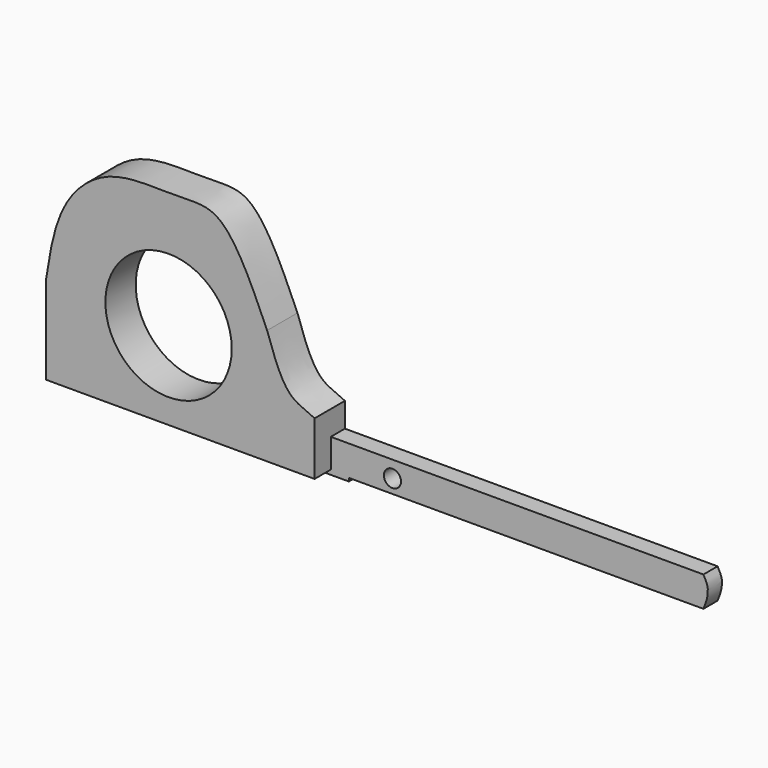
from build123d import *

# Parameters (mm, degrees)
F0_R     = 12.7
F1_DEPTH = 7.62
F3_DEPTH = 3.556


with BuildPart() as f1:
    # F0 (on Front) → F1 (new body)
    with BuildSketch(Plane.XZ):
        with BuildLine():
            add(Edge.make_bspline(
                [(-74.4966706308, 23.3939551896), (-73.725104121, 28.4430054043), (-72.244939562, 38.1290469534), (-62.0317343333, 47.6868281028), (-48.3025596431, 46.2584201491), (-38.4002225235, 47.7473061021), (-33.2032280448, 35.9426258243), (-30.0564943739, 28.7949975267)],
                knots=[0, 0, 0, 0, 0.20995775, 0.4027806022, 0.601365718, 0.7586305081, 1, 1, 1, 1], degree=3))
            Line((-74.4966706308, 23.3939551896), (-74.4966706308, 5.6139551896))
            Line((-74.4966706308, 5.6139551896), (-20.5216706308, 5.6139551896))
            Line((-20.5216706308, 5.6139551896), (-20.5216706308, 16.3425861905))
            add(Edge.make_bspline(
                [(-20.5216706308, 16.3425861905), (-22.7866601061, 17.3728601759), (-26.2623209609, 18.4523294218), (-28.5189439618, 24.213320784), (-30.0564943739, 28.7949975267)],
                knots=[0, 0, 0, 0, 0.4220329549, 1, 1, 1, 1], degree=3))
        make_face()
        with Locations((-49.8777776957, 23.2298132032)):
            Circle(F0_R, mode=Mode.SUBTRACT)
    extrude(amount=F1_DEPTH)


with BuildPart() as f3:
    # F2 (on Front) → F3 (new body)
    with BuildSketch(Plane.XZ):
        with BuildLine():
            Line((54.3913766734, 11.4217040176), (-21.8086233266, 11.4217040176))
            Line((-21.8086233266, 11.4217040176), (-21.5496970244, 4.6896238822))
            Line((-21.5496970244, 4.6896238822), (-16.8890263789, 4.6896238822))
            Line((-16.8890263789, 4.6896238822), (-16.8890263789, 5.3372839447))
            Line((-16.8890263789, 5.3372839447), (54.3913766734, 5.3372839447))
            add(Edge.make_bspline(
                [(54.3913766734, 11.4217040176), (55.3620508614, 9.7132972958), (55.1649866176, 8.7868398988), (55.3183357371, 7.6061006687), (54.3913766734, 5.3372839447)],
                knots=[0, 0, 0, 0, 0.4687879891, 1, 1, 1, 1], degree=3))
        make_face()
        with BuildLine():
            ThreePointArc((-6.4042282244, 8.0904201991), (-6.4042275306, 8.089528772), (-6.4042272993, 8.0886373447))
            ThreePointArc((-6.4042272993, 8.0886373447), (-9.840110468, 8.0877459174), (-6.4042282244, 8.0904201991))
        make_face(mode=Mode.SUBTRACT)
    extrude(amount=F3_DEPTH)


solid = Compound([f1.part, f3.part])
